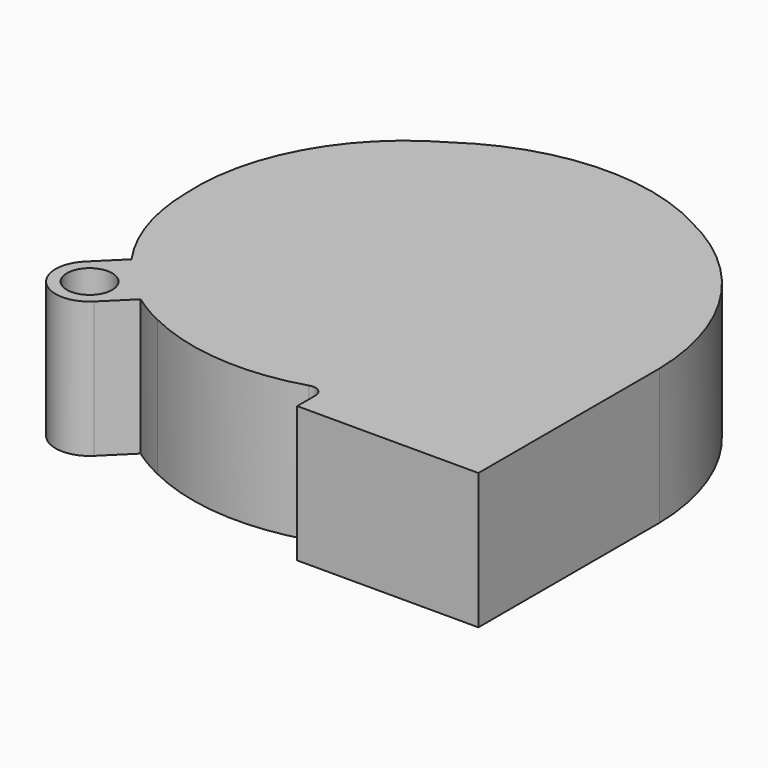
from build123d import *

# Parameters (mm, degrees)
PAD_DEPTH    = 15
SKETCH001_R  = 2.5
PAD001_DEPTH = 15


with BuildPart() as pad001:
    # Sketch → Pad (new body)
    with BuildSketch(Plane.XY):
        with BuildLine():
            ThreePointArc((28, 0), (23.864895, 13.557152), (13.25, 22.949673))
            ThreePointArc((13.25, 22.949673), (0.191005, 25.947373), (-12.5, 21.650635))
            ThreePointArc((-12.5, 21.650635), (-21.540101, 12.536731), (-24.3, 0))
            ThreePointArc((-24.3, 0), (-20.758805, -11.796406), (-11.5, -19.918584))
            ThreePointArc((-11.5, -19.918584), (-2.682605, -22.357754), (6.411777, -21.363661))
            ThreePointArc((8, -22.5), (7.497995, -21.523563), (6.411777, -21.363661))
            Line((8, -25), (8, -22.5))
            Line((28, -25), (8, -25))
            Line((28, 0), (28, -25))
        make_face()
    extrude(amount=PAD_DEPTH)

    # Sketch001 → Pad001 (new body)
    with BuildSketch(Plane(origin=(0, 0, 0), x_dir=(1, 0, 0), z_dir=(0, 0, -1))):
        with BuildLine():
            Line((-15, 17.860113), (-17.864704, 20.689803))
            ThreePointArc((-17.864704, 20.689803), (-23.167905, 20.657193), (-23.135296, 15.353993))
            Line((-20.270591, 12.524303), (-23.135296, 15.353993))
            ThreePointArc((-15, 17.860113), (-17.861019, 15.415172), (-20.270591, 12.524303))
        make_face()
        with Locations((-20.5, 18.021898)):
            Circle(SKETCH001_R, mode=Mode.SUBTRACT)
    extrude(amount=-PAD001_DEPTH)


with BuildPart() as clone_of_pad001:
    # Clone base: copy of Pad001
    add(pad001.part)


solid = Compound([pad001.part, clone_of_pad001.part])
